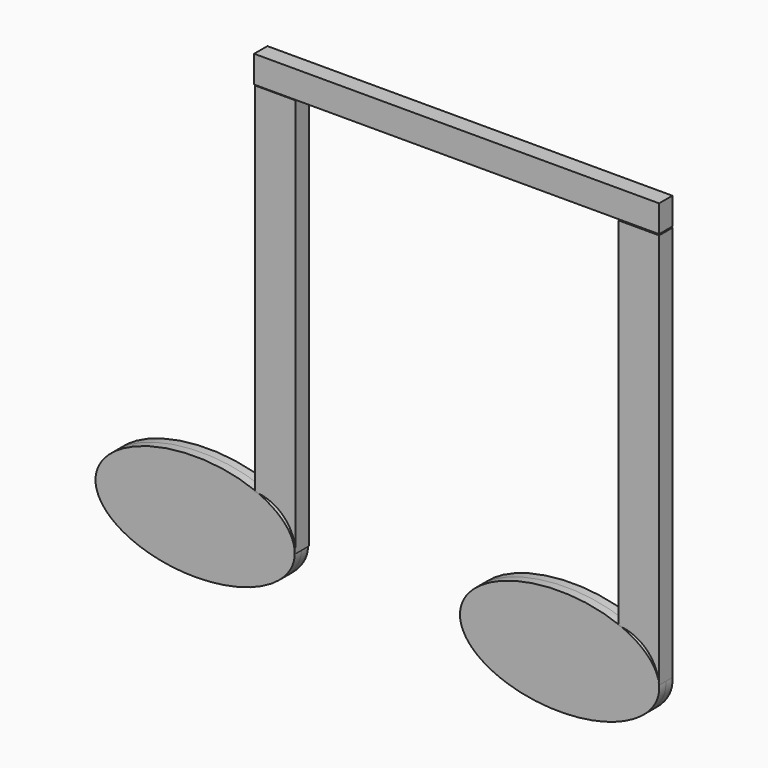
from build123d import *

# Parameters (mm, degrees)
F5_DEPTH = 1.5875
F6_DEPTH = 1.5875
F7_DEPTH = 1.5875
F8_DEPTH = 1.5875
F4_W     = 77.449792996
F4_H     = 5.1856189966
F9_DEPTH = 1.5875


with BuildPart() as f5:
    # F0 (on Front) → F5 (new body, symmetric)
    with BuildSketch(Plane.XZ):
        with BuildLine():
            add(Edge.make_bspline(
                [(-12.6955120239, 0), (-12.6955120239, 17.5976362049), (-41.2705120239, 8.7988181024), (-69.8455120239, 0), (-41.2705120239, -8.7988181024), (-12.6955120239, -17.5976362049), (-12.6955120239, 0)],
                knots=[0, 0, 0, 2.0943951024, 2.0943951024, 4.1887902048, 4.1887902048, 6.2831853072, 6.2831853072, 6.2831853072], degree=2, weights=[1, 0.5, 1, 0.5, 1, 0.5, 1]))
        make_face()
    extrude(amount=F5_DEPTH, both=True)

    # F2 (on Front) → F7 (join, symmetric)
    with BuildSketch(Plane.XZ):
        with BuildLine():
            ThreePointArc((-20.301355049, 7.8949732706), (-14.7998937299, 5.5384594896), (-12.5317005441, 0))
            Line((-12.5317005441, 0), (-12.5317005441, 76.3180702925))
            Line((-12.5317005441, 76.3180702925), (-20.301355049, 76.3180702925))
            Line((-20.301355049, 76.3180702925), (-20.301355049, 7.8949732706))
        make_face()
    extrude(amount=F7_DEPTH, both=True)


with BuildPart() as f6:
    # F1 (on Front) → F6 (new body, symmetric)
    with BuildSketch(Plane.XZ):
        with BuildLine():
            add(Edge.make_bspline(
                [(18.9053961899, 0), (18.9053961899, -17.5976362049), (47.4803961899, -8.7988181024), (76.0553961899, 0), (47.4803961899, 8.7988181024), (18.9053961899, 17.5976362049), (18.9053961899, 0)],
                knots=[0, 0, 0, 2.0943951024, 2.0943951024, 4.1887902048, 4.1887902048, 6.2831853072, 6.2831853072, 6.2831853072], degree=2, weights=[1, 0.5, 1, 0.5, 1, 0.5, 1]))
        make_face()
    extrude(amount=F6_DEPTH, both=True)

    # F3 (on Front) → F8 (join, symmetric)
    with BuildSketch(Plane.XZ):
        with BuildLine():
            ThreePointArc((49.2478497326, 7.9836277291), (54.7329249967, 5.5585913104), (56.9843500853, 0))
            Line((56.9843500853, 0), (56.9843500853, 76.2054771185))
            Line((56.9843500853, 76.2054771185), (49.2478497326, 76.2054771185))
            Line((49.2478497326, 76.2054771185), (49.2478497326, 7.9836277291))
        make_face()
    extrude(amount=F8_DEPTH, both=True)


with BuildPart() as f9:
    # F4 (on Front) → F9 (new body, symmetric)
    with BuildSketch(Plane.XZ):
        with Locations((18.2647733018, 79.0109410882)):
            Rectangle(F4_W, F4_H)
    extrude(amount=F9_DEPTH, both=True)


solid = Compound([f5.part, f6.part, f9.part])
